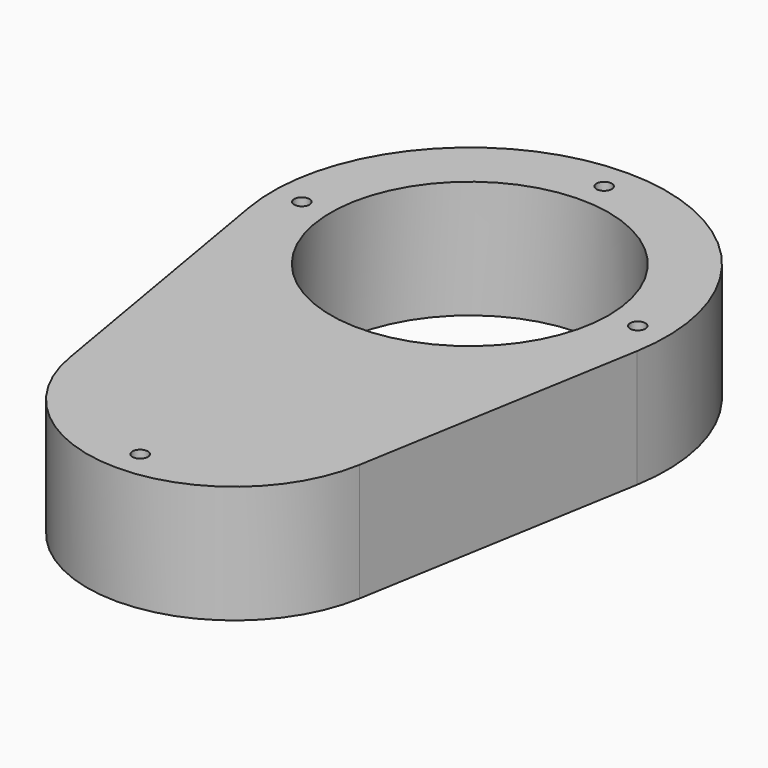
from build123d import *

# Parameters (mm, degrees)
F0_R     = 1.651
F0_R_2   = 30
F1_DEPTH = 25.4


with BuildPart() as f1:
    # F0 (on Top) → F1 (new body)
    with BuildSketch(Plane.XY):
        with BuildLine():
            ThreePointArc((-31.291722, -68.875), (0, -95.25), (31.291722, -68.875))
            Line((31.291722, -68.875), (41.886557, -7.194882))
            ThreePointArc((41.886557, -7.194882), (0, 42.5), (-41.886557, -7.194882))
            Line((-41.886557, -7.194882), (-31.291722, -68.875))
        make_face()
        with Locations((0, -88.9)):
            Circle(F0_R, mode=Mode.SUBTRACT)
        with Locations((-36.2458, 0)):
            Circle(F0_R, mode=Mode.SUBTRACT)
        Circle(F0_R_2, mode=Mode.SUBTRACT)
        with Locations((36.2458, 0)):
            Circle(F0_R, mode=Mode.SUBTRACT)
        with Locations((0, 36.2458)):
            Circle(F0_R, mode=Mode.SUBTRACT)
    extrude(amount=F1_DEPTH)


solid = f1.part
